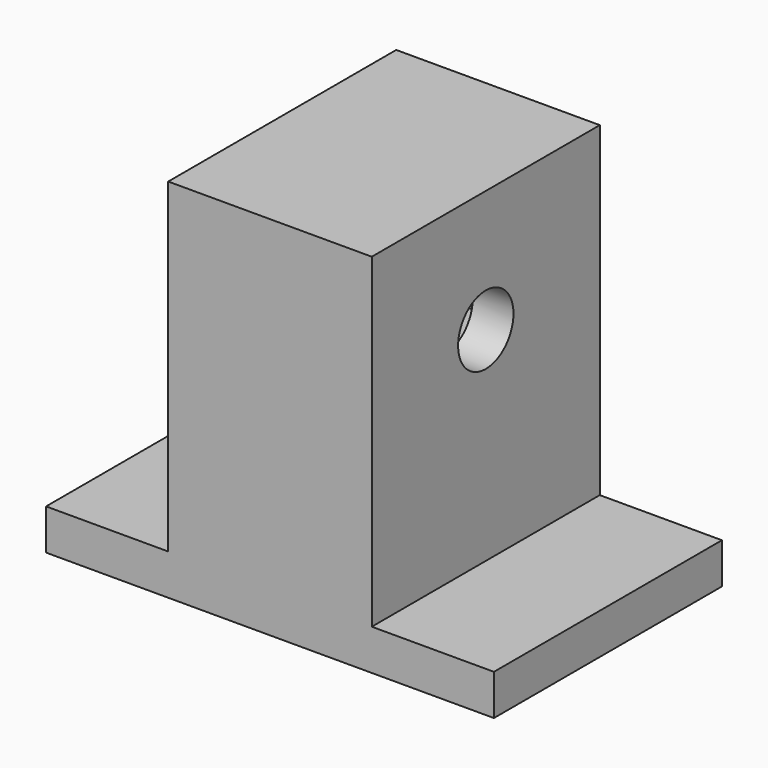
from build123d import *

# Parameters (mm, degrees)
F0_W      = 25
F0_H      = 35
F1_DEPTH  = 45
F2_R      = 12.5
F3_DEPTH  = 20
F4_R      = 4.25
F5_DEPTH  = 25
F6_W      = 35
F6_H      = 5
F7_DEPTH  = 15
F8_W      = 35
F8_H      = 5
F9_DEPTH  = 40
F10_W     = 17.5
F10_H     = 20
F11_DEPTH = 20


with BuildPart() as f1:
    # F0 (on Top) → F1 (new body)
    with BuildSketch(Plane.XY):
        with Locations((12.5, 17.5)):
            Rectangle(F0_W, F0_H)
    extrude(amount=F1_DEPTH)

    # F2 (on Right) → F3 (cut)
    with BuildSketch(Plane.YZ):
        with Locations((17.5, 30)):
            Circle(F2_R)
    extrude(amount=F3_DEPTH, mode=Mode.SUBTRACT)

    # F4 (on Right) → F5 (cut)
    with BuildSketch(Plane.YZ):
        with Locations((17.5, 30)):
            Circle(F4_R)
    extrude(amount=F5_DEPTH, mode=Mode.SUBTRACT)

    # F6 (on Right) → F7 (join)
    with BuildSketch(Plane.YZ):
        with Locations((17.5, 2.5)):
            Rectangle(F6_W, F6_H)
    extrude(amount=-F7_DEPTH)

    # F8 (on Right) → F9 (join)
    with BuildSketch(Plane.YZ):
        with Locations((17.5, 2.5)):
            Rectangle(F8_W, F8_H)
    extrude(amount=F9_DEPTH)

    # F10 (on Right) → F11 (cut)
    with BuildSketch(Plane.YZ):
        with Locations((26.25, 30)):
            Rectangle(F10_W, F10_H)
    extrude(amount=F11_DEPTH, mode=Mode.SUBTRACT)


solid = f1.part
